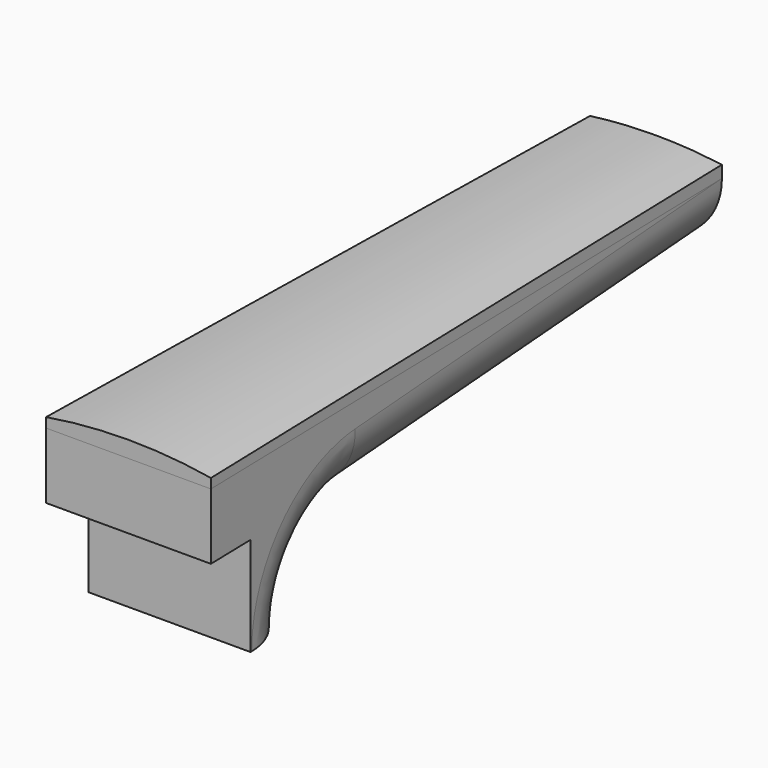
from build123d import *

# Parameters (mm, degrees)
F0_W      = 50
F0_H      = 50
F1_DEPTH  = 100
F3_DEPTH  = 50
F5_DEPTH  = 100
F6_R      = 20
F7_W      = 50
F7_H      = 30
F8_DEPTH  = 15.5194
F10_DEPTH = 5
F12_DEPTH = 247.65


with BuildPart() as f1:
    # F0 (on Front) → F1 (new body, symmetric)
    with BuildSketch(Plane.XZ):
        Rectangle(F0_W, F0_H)
    extrude(amount=F1_DEPTH, both=True)

    # F2 (on Right) → F3 (cut, symmetric)
    with BuildSketch(Plane.YZ):
        with BuildLine():
            Line((100, -25), (100, 5))
            Line((100, 5), (-43.0279051889, -2.3330381387))
            ThreePointArc((-43.0279051889, -2.3330381387), (-58.3205323775, -9.3672610402), (-64.5625040829, -25))
            Line((-64.5625040829, -25), (100, -25))
        make_face()
    extrude(amount=F3_DEPTH, both=True, mode=Mode.SUBTRACT)

    # F4 (on face) → F5 (cut)
    with BuildSketch(Plane.XY.offset(25)):
        Polygon((20, 100), (25, -100), (25, 100), align=None)
        Polygon((-25, 100), (-25, -100), (-20, 100), align=None)
    extrude(amount=-F5_DEPTH, mode=Mode.SUBTRACT)

    # F6
    f6_edges = [f1.edges().sort_by_distance(p)[0] for p in [
        (-23.957984, -58.319375, -9.366043),
        (-21.787849, 28.486047, 1.333481),
        (23.957984, -58.319375, -9.366043),
        (21.787849, 28.486047, 1.333481),
    ]]
    fillet(f6_edges, radius=F6_R)

    # F7 (on face) + F5_face (on face) → F8 (cut)
    with BuildSketch(Plane.XZ.offset(100)):
        Polygon((-25, 5), (-49.858982116, 5), (-49.858982116, -46.5103157897), (38.4103864431, -46.5103157897), (38.4103864431, 5), (25, 5), (25, -25), (-25, -25), align=None)
        with Locations((0, -10)):
            Rectangle(F7_W, F7_H)
    with BuildSketch(Plane(origin=(23.9793030666, -59.1721226651, 10.645525808), x_dir=(-0.0249921912, 0.9996876464, 0), z_dir=(0.9996876464, 0.0249921912, 0))):
        with BuildLine():
            Line((159.2093327542, 14.354474192), (-40.8406340537, 14.354474192))
            Line((-40.8406340537, 14.354474192), (-40.8406340537, -35.645525808))
            Line((-40.8406340537, -35.645525808), (-24.8983146726, -35.645525808))
            add(Edge.make_bspline(
                [(-24.8983146726, -35.645525808), (-24.8983146726, -28.5189194369), (-23.5596532338, -21.3920395037), (-20.8811621052, -14.5498230985), (-16.9361703967, -8.2751379661), (-11.8512306272, -2.8349400363), (-5.8484473226, 1.5446106479), (0.8535722788, 4.7053748996), (7.9583449614, 6.5081180205), (15.2033728728, 6.9693809999), (15.2436796153, 6.9723934073), (15.292966243, 6.9759620541), (15.3482692051, 6.9795006457), (15.4035800403, 6.982907422), (15.4588912365, 6.9862696529), (15.5142174043, 6.9893670157), (15.5695480956, 6.9923653034), (15.6248871844, 6.9952016513)],
                knots=[0, 0, 0, 0, 0, 0, 0, 0, 0, 0, 34.494586798, 34.494586798, 34.494586798, 34.494586798, 34.494586798, 34.494586798, 34.494586798, 34.494586798, 34.9932152432, 34.9932152432, 34.9932152432, 34.9932152432, 34.9932152432, 34.9932152432, 34.9932152432, 34.9932152432, 34.9932152432, 34.9932152432], degree=9))
            Line((15.6248871844, 6.9952016513), (159.2093327542, 14.354474192))
        make_face()
    extrude(amount=-F8_DEPTH, dir=(0, -1, 0), mode=Mode.SUBTRACT)


with BuildPart() as f10:
    # F9 (on face) → F10 (new body)
    with BuildSketch(Plane.XY.offset(25)):
        Polygon((-25, -100), (25, -100), (20.0003129879, 99.9874804822), (-20, 100), (-20.0003129879, 99.9874804822), align=None)
    extrude(amount=F10_DEPTH)

    # F11 (on face) → F12 (cut)
    with BuildSketch(Plane.XZ.offset(100)):
        with BuildLine():
            ThreePointArc((-36.7045857163, 25.5139391247), (-3.6151698091, 29.9571151842), (29.6477454186, 27.0883647365))
            Line((29.6477454186, 27.0883647365), (32.5201489031, 41.5777564049))
            Line((32.5201489031, 41.5777564049), (-40.051523596, 41.5777564049))
            Line((-40.051523596, 41.5777564049), (-36.7045857163, 25.5139391247))
        make_face()
    extrude(amount=-F12_DEPTH, mode=Mode.SUBTRACT)


solid = Compound([f1.part, f10.part])
